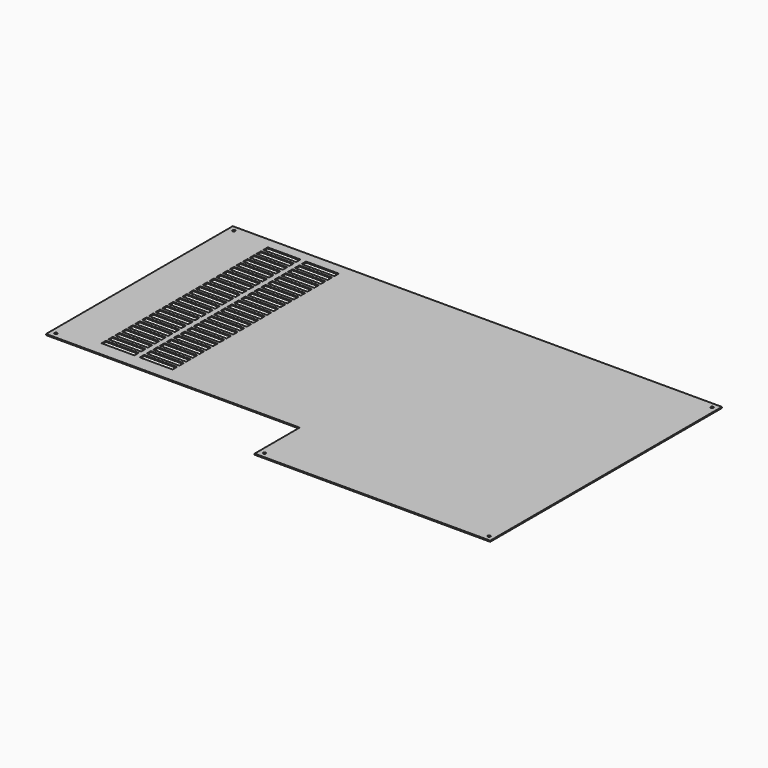
from build123d import *

# Parameters (mm, degrees)
SKETCH_R            = 2.5
PAD_DEPTH           = 2
SKETCH001_W         = 60
SKETCH001_H         = 10
POCKET_DEPTH        = 5
LINEARPATTERN_COUNT = 25
LINEARPATTERN_PITCH = 15.416667


with BuildPart() as part:
    # Sketch → Pad (new body)
    with BuildSketch(Plane.XY):
        Polygon((16.5, -162), (-447.5, -162), (-447.5, 265), (447.5, 265), (447.5, -265), (16.5, -265), align=None)
        with Locations((-437.5, 255)):
            Circle(SKETCH_R, mode=Mode.SUBTRACT)
        with Locations((-437.5, -152)):
            Circle(SKETCH_R, mode=Mode.SUBTRACT)
        with Locations((26.5, -255)):
            Circle(SKETCH_R, mode=Mode.SUBTRACT)
        with Locations((437.5, -255)):
            Circle(SKETCH_R, mode=Mode.SUBTRACT)
        with Locations((437.5, 255)):
            Circle(SKETCH_R, mode=Mode.SUBTRACT)
    extrude(amount=PAD_DEPTH)

    # Sketch001 → Pocket (cut)
    with BuildSketch(Plane.XY.offset(2)):
        with Locations((-337.5, 240)):
            Rectangle(SKETCH001_W, SKETCH001_H)
        with Locations((-267.5, 240)):
            Rectangle(SKETCH001_W, SKETCH001_H)
    pocket = extrude(amount=-POCKET_DEPTH, mode=Mode.SUBTRACT)

    # LinearPattern: Pocket ×25
    with Locations(*[(0, -i * LINEARPATTERN_PITCH, 0) for i in range(1, LINEARPATTERN_COUNT)]):
        add(pocket, mode=Mode.SUBTRACT)


solid = part.part
